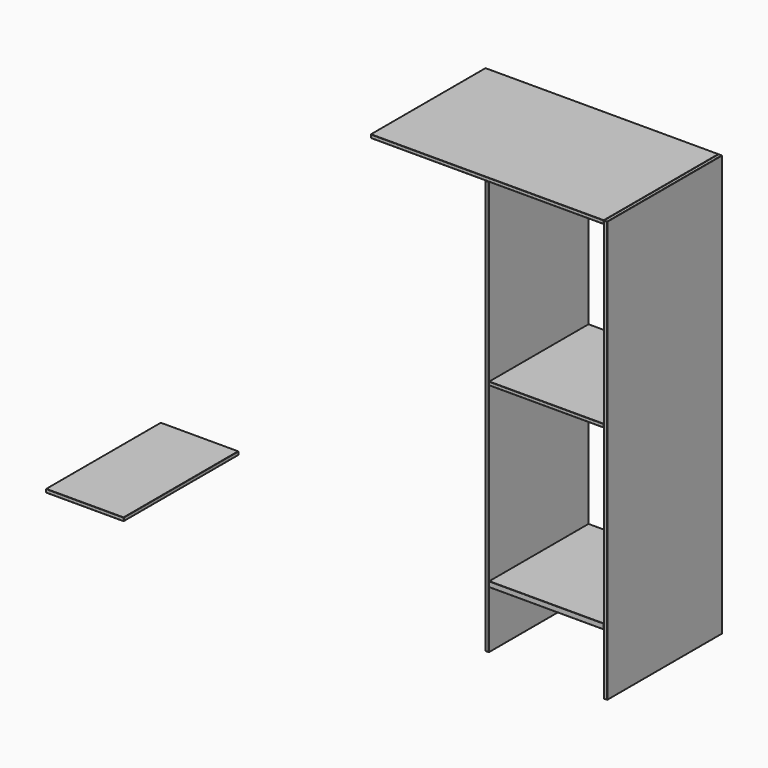
from build123d import *

# Parameters (mm, degrees)
F1_DEPTH = 750
F0_W     = 600
F0_H     = 28
F2_DEPTH = 650
F0_H_2   = 18
F3_DEPTH = 650
F4_DEPTH = 750
F5_DEPTH = 650
F0_W_2   = 406
F6_DEPTH = 750
F7_R     = 2
F8_R     = 2
F8_2_R   = 2
F9_R     = 2
F10_R    = 2
F11_R    = 2


with BuildPart() as f1:
    # F0 (on Front) → F1 (new body)
    with BuildSketch(Plane.XZ):
        Polygon((2932, 0), (2950, 0), (2950, 2200), (2932, 2200), (2932, 2182), (2932, 1362), (2932, 1344), (2932, 1264), (2932, 1246), (2932, 346), (2932, 318), (2932, 18), align=None)
    extrude(amount=-F1_DEPTH)

    # F8
    f8_edges = [f1.edges().sort_by_distance(p)[0] for p in [
        (2950, 375, 2200),
        (2941, 0, 2200),
        (2950, 0, 1100),
        (2932, 0, 1100),
        (2932, 375, 2200),
        (2950, 750, 1100),
        (2932, 750, 1100),
        (2941, 750, 2200),
        (2941, 750, 0),
        (2950, 375, 0),
        (2932, 375, 0),
        (2941, 0, 0),
    ]]
    fillet(f8_edges, radius=F8_R)


with BuildPart() as f2:
    # F0 (on Front) → F2 (new body)
    with BuildSketch(Plane.XZ):
        with Locations((2632, 332)):
            Rectangle(F0_W, F0_H)
    extrude(amount=-F2_DEPTH)

    # F9
    f9_edges = [f2.edges().sort_by_distance(p)[0] for p in [
        (2632, 0, 318),
        (2632, 0, 346),
        (2332, 0, 332),
        (2332, 325, 346),
        (2332, 325, 318),
        (2632, 650, 346),
        (2632, 650, 318),
        (2332, 650, 332),
        (2932, 325, 346),
        (2932, 650, 332),
        (2932, 325, 318),
        (2932, 0, 332),
    ]]
    fillet(f9_edges, radius=F9_R)


with BuildPart() as f3:
    # F0 (on Front) → F3 (new body)
    with BuildSketch(Plane.XZ):
        with Locations((2632, 1255)):
            Rectangle(F0_W, F0_H_2)
    extrude(amount=-F3_DEPTH)

    # F10
    f10_edges = [f3.edges().sort_by_distance(p)[0] for p in [
        (2632, 650, 1246),
        (2932, 650, 1255),
        (2632, 650, 1264),
        (2332, 650, 1255),
        (2932, 325, 1246),
        (2932, 325, 1264),
        (2932, 0, 1255),
        (2332, 325, 1264),
        (2332, 325, 1246),
        (2332, 0, 1255),
        (2632, 0, 1246),
        (2632, 0, 1264),
    ]]
    fillet(f10_edges, radius=F10_R)


with BuildPart() as f4:
    # F0 (on Front) → F4 (new body)
    with BuildSketch(Plane.XZ):
        Polygon((2932, 2182), (2932, 2200), (1714, 2200), (1714, 2182), (2314, 2182), (2332, 2182), align=None)
    extrude(amount=-F4_DEPTH)

    # F7
    f7_edges = [f4.edges().sort_by_distance(p)[0] for p in [
        (2323, 750, 2200),
        (1714, 375, 2200),
        (2323, 750, 2182),
        (1714, 375, 2182),
        (2323, 0, 2200),
        (2323, 0, 2182),
        (1714, 0, 2191),
        (1714, 750, 2191),
        (2932, 375, 2200),
        (2932, 750, 2191),
        (2932, 375, 2182),
        (2932, 0, 2191),
    ]]
    fillet(f7_edges, radius=F7_R)


with BuildPart() as f5:
    # F0 (on Front) → F5 (new body)
    with BuildSketch(Plane.XZ):
        Polygon((2314, 18), (2332, 18), (2332, 318), (2332, 346), (2332, 1246), (2332, 1264), (2332, 1344), (2332, 1362), (2332, 2182), (2314, 2182), (2314, 1362), (2314, 1344), (2314, 1264), (2314, 1246), (2314, 346), (2314, 318), align=None)
    extrude(amount=-F5_DEPTH)

    # F8#2
    f8_2_edges = [f5.edges().sort_by_distance(p)[0] for p in [
        (2332, 325, 18),
        (2323, 0, 18),
        (2314, 0, 1100),
        (2314, 325, 18),
        (2332, 0, 1100),
        (2323, 650, 18),
        (2314, 650, 1100),
        (2332, 650, 1100),
        (2323, 650, 2182),
        (2314, 325, 2182),
        (2332, 325, 2182),
        (2323, 0, 2182),
    ]]
    fillet(f8_2_edges, radius=F8_2_R)


with BuildPart() as f6:
    # F0 (on Front) → F6 (new body)
    with BuildSketch(Plane.XZ):
        with Locations((221, 9)):
            Rectangle(F0_W_2, F0_H_2)
    extrude(amount=-F6_DEPTH)

    # F11
    f11_edges = [f6.edges().sort_by_distance(p)[0] for p in [
        (18, 375, 18),
        (18, 375, 0),
        (18, 0, 9),
        (18, 750, 9),
        (221, 750, 0),
        (424, 750, 9),
        (221, 750, 18),
        (424, 375, 0),
        (424, 375, 18),
        (424, 0, 9),
        (221, 0, 0),
        (221, 0, 18),
    ]]
    fillet(f11_edges, radius=F11_R)


solid = Compound([f1.part, f2.part, f3.part, f4.part, f5.part, f6.part])
